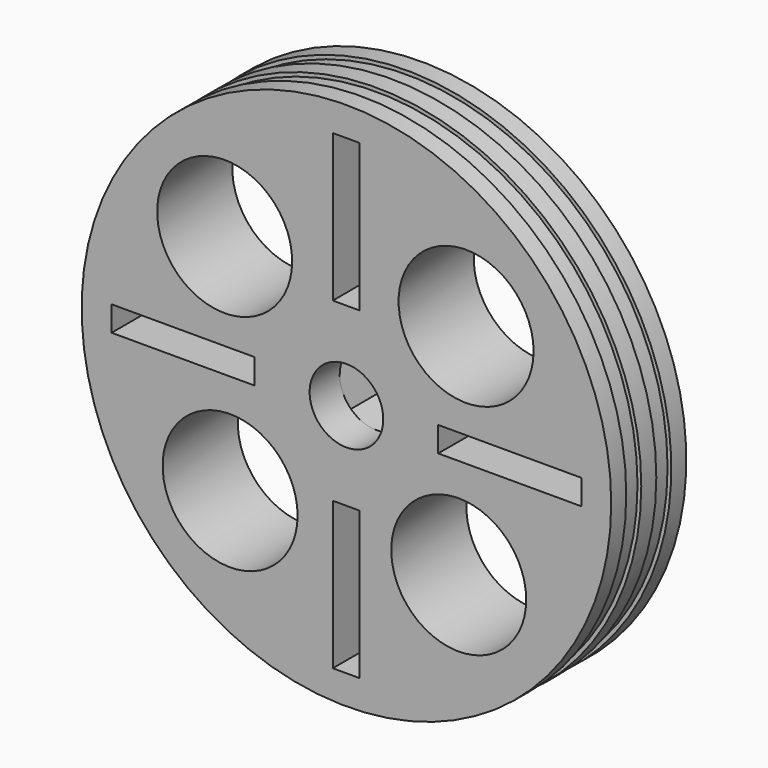
from build123d import *

# Parameters (mm, degrees)
F0_R      = 44.1325
F1_DEPTH  = 3.175
F2_R      = 44.7675
F3_DEPTH  = 3.175
F4_R      = 44.1325
F5_DEPTH  = 3.175
F6_R      = 44.7675
F7_DEPTH  = 3.175
F8_R      = 44.7675
F9_DEPTH  = 3.175
F10_R     = 2.032
F11_DEPTH = 152.4
F13_DEPTH = 9.525
F14_R     = 6.223
F15_DEPTH = 14.732
F17_W     = 24.1837650537
F17_H     = 4.2383915279
F17_W_2   = 4.4877096079
F17_H_2   = 24.9317130074
F18_DEPTH = 25.4
F19_R     = 11.4097485145
F20_DEPTH = 25.4


with BuildPart() as f1:
    # F0 (on Front) → F1 (new body)
    with BuildSketch(Plane.XZ):
        Circle(F0_R)
    extrude(amount=-F1_DEPTH)

    # F2 (on Front) + F0 (on Front) → F3 (join)
    with BuildSketch(Plane.XZ):
        Circle(F2_R)
    with BuildSketch(Plane.XZ):
        Circle(F0_R)
    extrude(amount=F3_DEPTH)

    # F4 (on face) → F5 (join)
    with BuildSketch(Plane.XZ.offset(3.175)):
        Circle(F4_R)
    extrude(amount=F5_DEPTH)

    # F6 (on face) → F7 (join)
    with BuildSketch(Plane.XZ.offset(6.35)):
        Circle(F6_R)
    extrude(amount=F7_DEPTH)

    # F8 (on face) → F9 (join)
    with BuildSketch(Plane(origin=(0, 3.175, 0), x_dir=(-1, 0, 0), z_dir=(0, 1, 0))):
        Circle(F8_R)
    extrude(amount=F9_DEPTH)

    # F10 (on face) → F11 (cut)
    with BuildSketch(Plane.XZ.offset(9.525)):
        Circle(F10_R)
    extrude(amount=-F11_DEPTH, mode=Mode.SUBTRACT)

    # F12 (on face) → F13 (cut)
    with BuildSketch(Plane(origin=(0, 6.35, 0), x_dir=(-1, 0, 0), z_dir=(0, 1, 0))):
        Polygon((5.0649773709, -5.0970883419), (6.9466966749, 1.8378549019), (1.8817193039, 6.9349432438), (-5.0649773709, 5.0970883419), (-6.9466966749, -1.8378549019), (-1.8817193039, -6.9349432438), align=None)
    extrude(amount=-F13_DEPTH, mode=Mode.SUBTRACT)

    # F14 (on face) → F15 (cut)
    with BuildSketch(Plane.XZ.offset(9.525)):
        Circle(F14_R)
    extrude(amount=-F15_DEPTH, mode=Mode.SUBTRACT)

    # F17 (on face) → F18 (cut)
    with BuildSketch(Plane.XZ.offset(9.525)):
        with Locations((-27.6118777692, 0.0623291126)):
            Rectangle(F17_W, F17_H)
        with Locations((-0.0623329543, 27.3625557311)):
            Rectangle(F17_W_2, F17_H_2)
        with Locations((27.6118777692, 0.0623291126)):
            Rectangle(F17_W, F17_H)
        with Locations((-0.0623329543, -27.3625557311)):
            Rectangle(F17_W_2, F17_H_2)
    extrude(amount=-F18_DEPTH, mode=Mode.SUBTRACT)

    # F19 (on face) → F20 (cut)
    with BuildSketch(Plane.XZ.offset(9.525)):
        with Locations((-20.5905977637, 18.4839479625)):
            Circle(F19_R)
        with Locations((-19.6668505669, -19.046600908)):
            Circle(F19_R)
        with Locations((18.9835131168, -19.0101228654)):
            Circle(F19_R)
        with Locations((20.2279239893, 18.3876641095)):
            Circle(F19_R)
    extrude(amount=-F20_DEPTH, mode=Mode.SUBTRACT)


solid = f1.part
